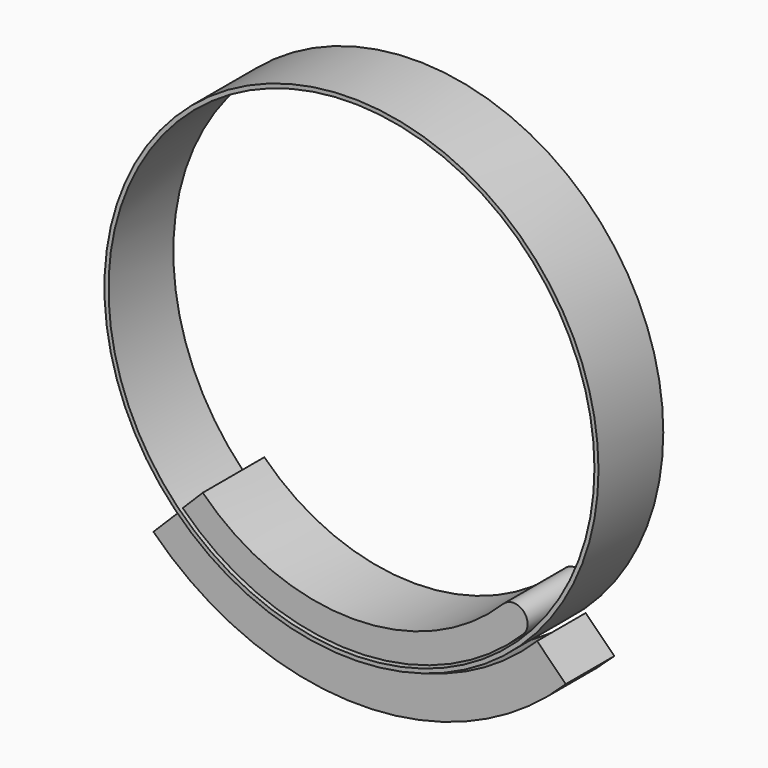
from build123d import *

# Parameters (mm, degrees)
F0_R     = 77.47
F0_R_2   = 76.2
F1_DEPTH = 12.7
F3_DEPTH = 9.525
F4_T     = 2.54


with BuildPart() as f1:
    # F0 (on Front) → F1 (new body, symmetric)
    with BuildSketch(Plane.XZ):
        Circle(F0_R)
        Circle(F0_R_2, mode=Mode.SUBTRACT)
    extrude(amount=F1_DEPTH, both=True)


with BuildPart() as f3:
    # F2 (on Front) → F3 (new body, symmetric)
    with BuildSketch(Plane.XZ):
        with BuildLine():
            ThreePointArc((48.9423958598, -48.9423958598), (0, -69.215), (-48.9423958598, -48.9423958598))
            Line((-48.9423958598, -48.9423958598), (-51.6364726961, -51.6364726961))
            ThreePointArc((-51.6364726961, -51.6364726961), (0, -73.025), (51.6364726961, -51.6364726961))
            ThreePointArc((51.6364726961, -51.6364726961), (51.6364726961, -48.9423958598), (48.9423958598, -48.9423958598))
        make_face()
    extrude(amount=F3_DEPTH, both=True)

    # F4
    f4_openings = [f3.faces().sort_by_distance(p)[0] for p in [
        (-50.289434, 0, -50.289434),
    ]]
    offset(amount=F4_T, openings=f4_openings, kind=Kind.INTERSECTION)


with BuildPart() as f3b:
    # F2 (on Front) → F3, piece 2 (new body, symmetric)
    with BuildSketch(Plane.XZ):
        with BuildLine():
            ThreePointArc((55.6775879506, -55.6775879506), (0, -78.74), (-55.6775879506, -55.6775879506))
            Line((-55.6775879506, -55.6775879506), (-64.6578440717, -64.6578440717))
            ThreePointArc((-64.6578440717, -64.6578440717), (0, -91.44), (64.6578440717, -64.6578440717))
            Line((64.6578440717, -64.6578440717), (55.6775879506, -55.6775879506))
        make_face()
    extrude(amount=F3_DEPTH, both=True)


solid = Compound([f1.part, f3.part, f3b.part])
